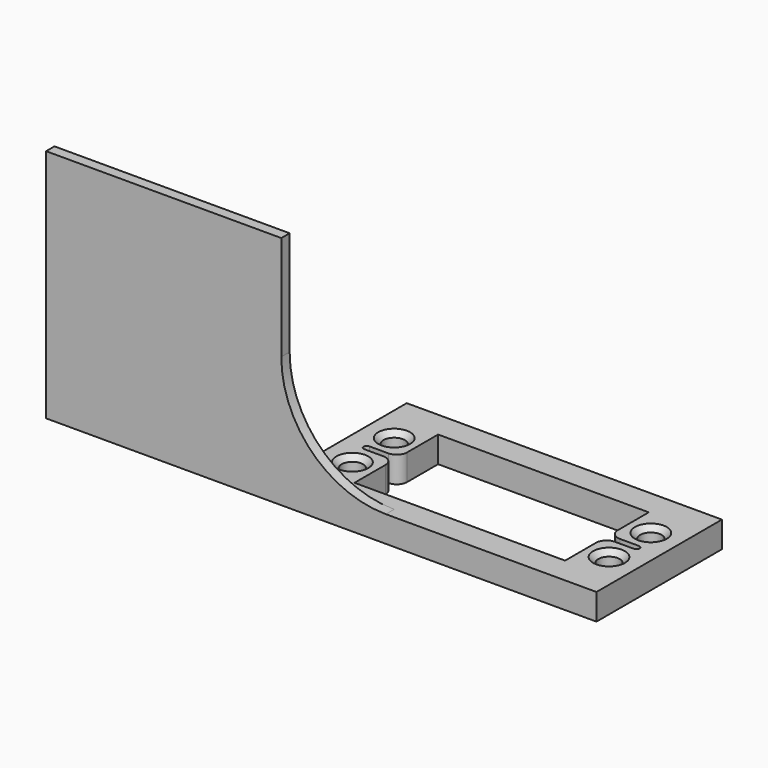
from build123d import *

# Parameters (mm, degrees)
F0_W     = 60.3
F0_H     = 30
F0_R     = 2.05
F1_DEPTH = 5
F3_DEPTH = 2
F4_SIZE  = 1


with BuildPart() as f1:
    # F0 (on Top) → F1 (new body)
    with BuildSketch(Plane.XY):
        Rectangle(F0_W, F0_H)
        with Locations((-24.55, -5)):
            Circle(F0_R, mode=Mode.SUBTRACT)
        with Locations((24.55, -5)):
            Circle(F0_R, mode=Mode.SUBTRACT)
        with Locations((-24.55, 5)):
            Circle(F0_R, mode=Mode.SUBTRACT)
        with BuildLine():
            Line((-20.15, 10), (0, 10))
            Line((0, 10), (20.15, 10))
            Line((20.15, 10), (20.15, 2.6))
            ThreePointArc((20.15, 2.6), (20.735786, 1.185786), (22.15, 0.6))
            Line((22.15, 0.6), (25.8, 0.6))
            ThreePointArc((25.8, 0.6), (26.224264, 0.424264), (26.4, 0))
            ThreePointArc((26.4, 0), (26.224264, -0.424264), (25.8, -0.6))
            Line((25.8, -0.6), (22.15, -0.6))
            ThreePointArc((22.15, -0.6), (20.735786, -1.185786), (20.15, -2.6))
            Line((20.15, -2.6), (20.15, -10))
            Line((20.15, -10), (0, -10))
            Line((0, -10), (-20.15, -10))
            Line((-20.15, -10), (-20.15, -2.6))
            ThreePointArc((-20.15, -2.6), (-20.735786, -1.185786), (-22.15, -0.6))
            Line((-22.15, -0.6), (-25.8, -0.6))
            ThreePointArc((-25.8, -0.6), (-26.224264, -0.424264), (-26.4, 0))
            ThreePointArc((-26.4, 0), (-26.224264, 0.424264), (-25.8, 0.6))
            Line((-25.8, 0.6), (-22.15, 0.6))
            ThreePointArc((-22.15, 0.6), (-20.735786, 1.185786), (-20.15, 2.6))
            Line((-20.15, 2.6), (-20.15, 10))
        make_face(mode=Mode.SUBTRACT)
        with Locations((24.55, 5)):
            Circle(F0_R, mode=Mode.SUBTRACT)
    extrude(amount=F1_DEPTH)

    # F2 (on face) → F3 (join)
    with BuildSketch(Plane.XZ.offset(15)):
        with BuildLine():
            Line((-75.15, 0), (-12.892582, 0))
            Line((-12.892582, 0), (-12.892582, 5))
            Line((-12.892582, 5), (-10.15, 5))
            ThreePointArc((-10.15, 5), (-24.292136, 10.857864), (-30.15, 25))
            Line((-30.15, 25), (-30.15, 45))
            Line((-30.15, 45), (-75.15, 45))
            Line((-75.15, 45), (-75.15, 0))
        make_face()
    extrude(amount=-F3_DEPTH)

    # F4
    f4_edges = [f1.edges().sort_by_distance(p)[0] for p in [
        (-26.6, 5, 5),
        (-22.5, -5, 2.5),
        (-26.6, -5, 0),
        (-26.6, -5, 5),
        (26.6, 5, 2.5),
        (22.5, 5, 0),
        (22.5, 5, 5),
        (22.5, -5, 5),
    ]]
    chamfer(f4_edges, length=F4_SIZE)


solid = f1.part
